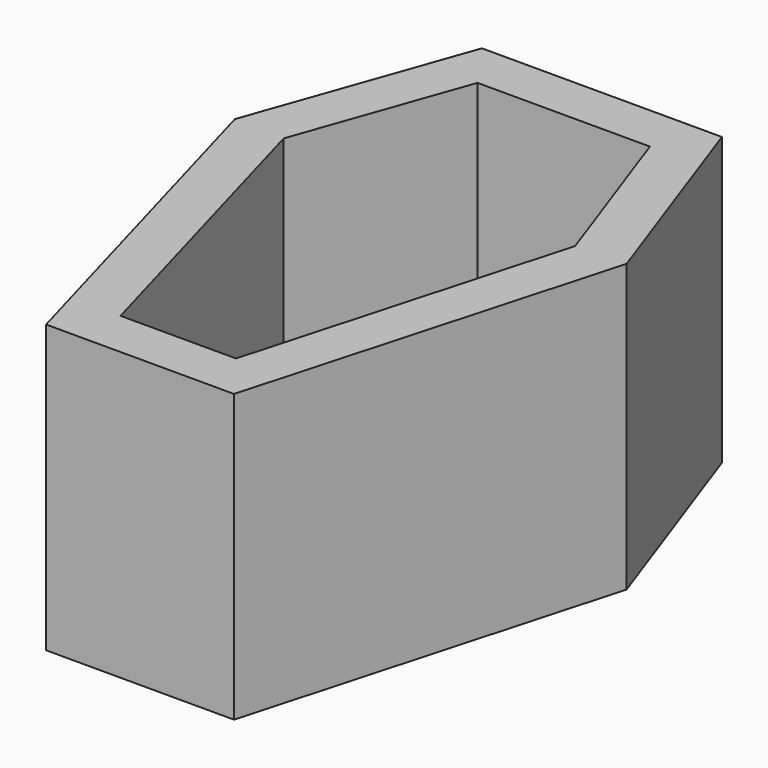
from build123d import *

# Parameters (mm, degrees)
F1_DEPTH = 76.2
F2_T     = -12.7


with BuildPart() as f1:
    # F0 (on Top) → F1 (new body)
    with BuildSketch(Plane.XY):
        Polygon((-52.03658, 41.208159), (-24.965527, -55.345263), (24.965527, -55.345263), (52.03658, 41.208159), (31.883683, 98.057374), (0, 98.057374), (-31.883683, 98.057374), align=None)
    extrude(amount=F1_DEPTH)

    # F2
    f2_openings = [f1.faces().sort_by_distance(p)[0] for p in [
        (0, 25.468394, 76.2),
    ]]
    offset(amount=F2_T, openings=f2_openings)


solid = f1.part
